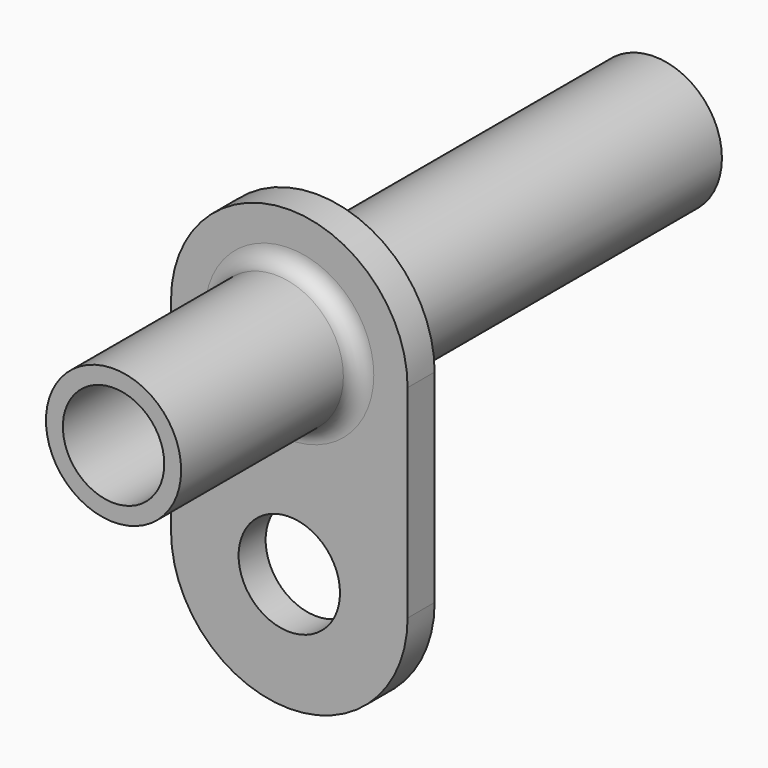
from build123d import *

# Parameters (mm, degrees)
F0_R     = 4
F0_R_2   = 3
F1_DEPTH = 40
F3_R     = 3
F4_DEPTH = 2
F5_R     = 1


with BuildPart() as f1:
    # F0 (on Front) → F1 (new body)
    with BuildSketch(Plane.XZ):
        Circle(F0_R)
        Circle(F0_R_2, mode=Mode.SUBTRACT)
    extrude(amount=F1_DEPTH)

    # F3 (on offset) → F4 (join)
    with BuildSketch(Plane.XZ.offset(25)):
        with BuildLine():
            Line((-7, 0), (-7, -12))
            ThreePointArc((-7, -12), (0, -19), (7, -12))
            Line((7, -12), (7, 0))
            ThreePointArc((7, 0), (0, 7), (-7, 0))
        make_face()
        with Locations((0, -12)):
            Circle(F3_R, mode=Mode.SUBTRACT)
    extrude(amount=F4_DEPTH)

    # F5
    f5_edges = [f1.edges().sort_by_distance(p)[0] for p in [
        (-4, -27, 0),
        (-4, -25, 0),
    ]]
    fillet(f5_edges, radius=F5_R)


solid = f1.part
